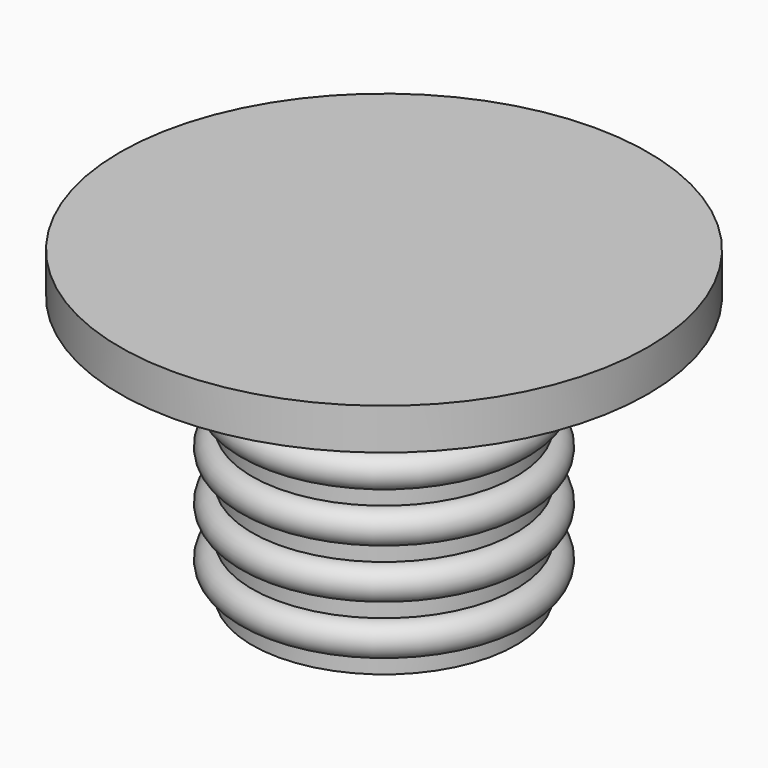
from build123d import *

# Parameters (mm, degrees)
F0_R     = 16
F1_DEPTH = 45
F3_DEPTH = 25
F7_DEPTH = 1
F8_W     = 37.770492
F8_H     = 32
F9_DEPTH = 25


with BuildPart() as f1:
    # F0 (on Top) → F1 (new body)
    with BuildSketch(Plane.XY):
        Circle(F0_R)
    extrude(amount=F1_DEPTH)

    # F2 (on Front) → F3 (cut, symmetric)
    with BuildSketch(Plane.XZ):
        Polygon((16, 45), (-16, 45), (16, 21), align=None)
    extrude(amount=F3_DEPTH, both=True, mode=Mode.SUBTRACT)

    # F4 (on Right) → F5 (revolve, cut)
    with BuildSketch(Plane.YZ):
        with BuildLine():
            Line((-10, 16), (-20, 16))
            Line((-20, 16), (-20, 0))
            Line((-20, 0), (-8, 0))
            Line((-8, 0), (-8, 1))
            ThreePointArc((-8, 1), (-9, 2), (-8, 3))
            Line((-8, 3), (-8, 4))
            ThreePointArc((-8, 4), (-9, 5), (-8, 6))
            Line((-8, 6), (-8, 7))
            ThreePointArc((-8, 7), (-9, 8), (-8, 9))
            Line((-8, 9), (-8, 10))
            ThreePointArc((-8, 10), (-9, 11), (-8, 12))
            Line((-8, 12), (-8, 14))
            ThreePointArc((-8, 14), (-8.585786, 15.414214), (-10, 16))
        make_face()
    revolve(axis=Axis((0, 0, 28.680155), (0, 0, 1)), mode=Mode.SUBTRACT)

    # F6 (on face) → F7 (cut)
    with BuildSketch(Plane(origin=(15.84, 0, 21.12), x_dir=(0.8, 0, -0.6), z_dir=(0.6, 0, 0.8))):
        with BuildLine():
            add(Edge.make_bspline(
                [(-19.3, -11.7), (13.78217, -11.7), (-2.758915, 5.85), (-19.3, 23.4), (-35.841085, 5.85), (-52.38217, -11.7), (-19.3, -11.7)],
                knots=[4.712389, 4.712389, 4.712389, 6.806784, 6.806784, 8.901179, 8.901179, 10.995574, 10.995574, 10.995574], degree=2, weights=[1, 0.5, 1, 0.5, 1, 0.5, 1]))
        make_face()
    extrude(amount=-F7_DEPTH, mode=Mode.SUBTRACT)

    # F8 (on Front) → F9 (cut, symmetric)
    with BuildSketch(Plane.XZ):
        with Locations((0.594341, 34.5)):
            Rectangle(F8_W, F8_H)
    extrude(amount=F9_DEPTH, both=True, mode=Mode.SUBTRACT)


solid = f1.part
